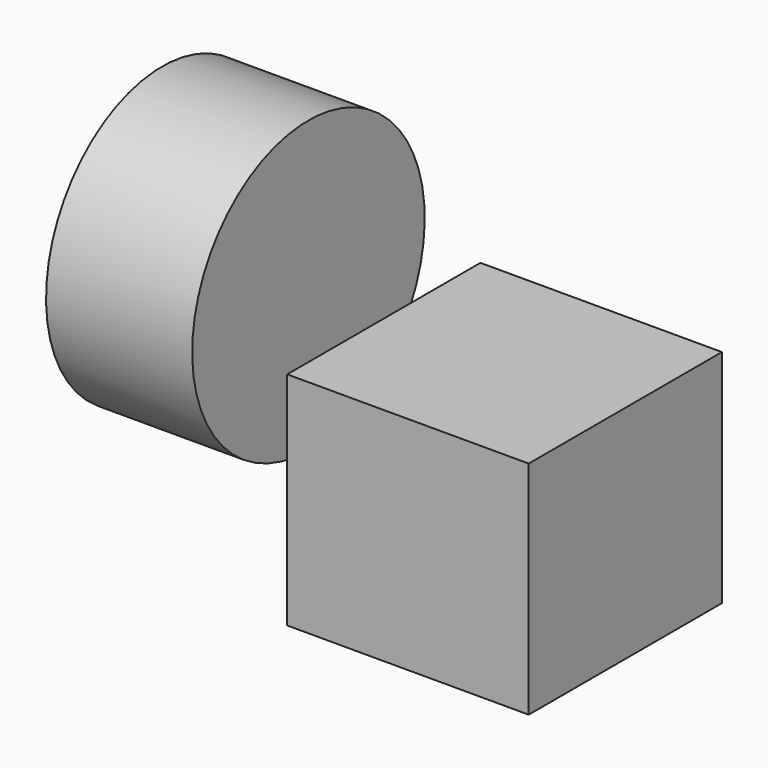
from build123d import *

# Parameters (mm, degrees)
F0_W     = 40
F0_H     = 36.617186
F1_DEPTH = 40
F2_W     = 24.208862
F2_H     = 24.066458


with BuildPart() as f1:
    # F0 (on Front) → F1 (new body)
    with BuildSketch(Plane.XZ):
        with Locations((20, 18.308593)):
            Rectangle(F0_W, F0_H)
    extrude(amount=F1_DEPTH)


with BuildPart() as f3:
    # F2 (on Front) → F3 (revolve)
    with BuildSketch(Plane.XZ):
        with Locations((-40.585445, 12.033229)):
            Rectangle(F2_W, F2_H)
    revolve(axis=Axis((-61.376585, 0, 24.066458), (-1, 0, 0)))


solid = Compound([f1.part, f3.part])
